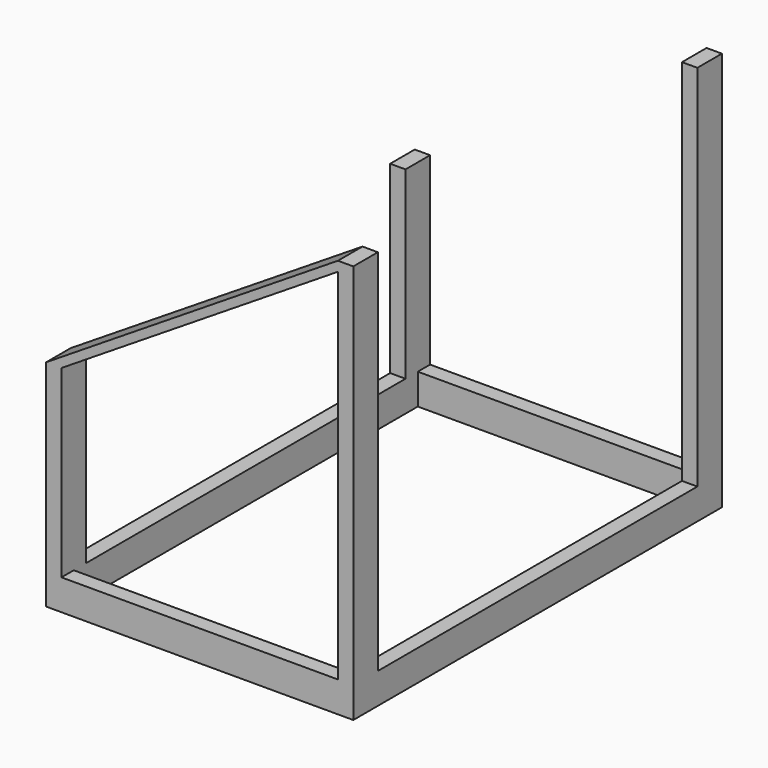
from build123d import *

# Parameters (mm, degrees)
F0_W      = 50.8
F0_H      = 101.6
F1_DEPTH  = 1524
F2_W      = 50.8
F2_H      = 101.6
F3_DEPTH  = 914.4
F4_W      = 50.8
F4_H      = 101.6
F5_DEPTH  = 1524
F6_W      = 50.8
F6_H      = 101.6
F7_DEPTH  = 914.4
F8_W      = 50.8
F8_H      = 101.6
F9_DEPTH  = 1219.2
F10_W     = 50.8
F10_H     = 101.6
F11_DEPTH = 1219.2
F12_W     = 50.8
F12_H     = 101.6
F13_DEPTH = 609.6
F14_W     = 50.8
F14_H     = 101.6
F15_DEPTH = 609.6
F17_DEPTH = 101.6


with BuildPart() as f1:
    # F0 (on Front) → F1 (new body)
    with BuildSketch(Plane.XZ):
        with Locations((-25.4, 50.8)):
            Rectangle(F0_W, F0_H)
    extrude(amount=F1_DEPTH)

    # F2 (on Right) → F3 (join)
    with BuildSketch(Plane.YZ):
        with Locations((-25.4, 50.8)):
            Rectangle(F2_W, F2_H)
    extrude(amount=F3_DEPTH)

    # F4 (on face) → F5 (join)
    with BuildSketch(Plane(origin=(0, 0, 0), x_dir=(-1, 0, 0), z_dir=(0, 1, 0))):
        with Locations((-939.8, 50.8)):
            Rectangle(F4_W, F4_H)
    extrude(amount=-F5_DEPTH)

    # F6 (on face) → F7 (join)
    with BuildSketch(Plane.YZ):
        with Locations((-1498.6, 50.8)):
            Rectangle(F6_W, F6_H)
    extrude(amount=F7_DEPTH)

    # F8 (on face) → F9 (join)
    with BuildSketch(Plane.XY.offset(101.6)):
        with Locations((939.8, -1473.2)):
            Rectangle(F8_W, F8_H)
    extrude(amount=F9_DEPTH)

    # F10 (on face) → F11 (join)
    with BuildSketch(Plane.XY.offset(101.6)):
        with Locations((939.8, -50.8)):
            Rectangle(F10_W, F10_H)
    extrude(amount=F11_DEPTH)

    # F12 (on face) → F13 (join)
    with BuildSketch(Plane.XY.offset(101.6)):
        with Locations((-25.4, -50.8)):
            Rectangle(F12_W, F12_H)
    extrude(amount=F13_DEPTH)

    # F14 (on face) → F15 (join)
    with BuildSketch(Plane.XY.offset(101.6)):
        with Locations((-25.4, -1473.2)):
            Rectangle(F14_W, F14_H)
    extrude(amount=F15_DEPTH)

    # F16 (on face) → F17 (join)
    with BuildSketch(Plane.XZ.offset(1524)):
        Polygon((914.4, 1320.8), (-50.8, 711.2), (0, 711.2), (914.4, 1288.715789), align=None)
    extrude(amount=-F17_DEPTH)


solid = f1.part
